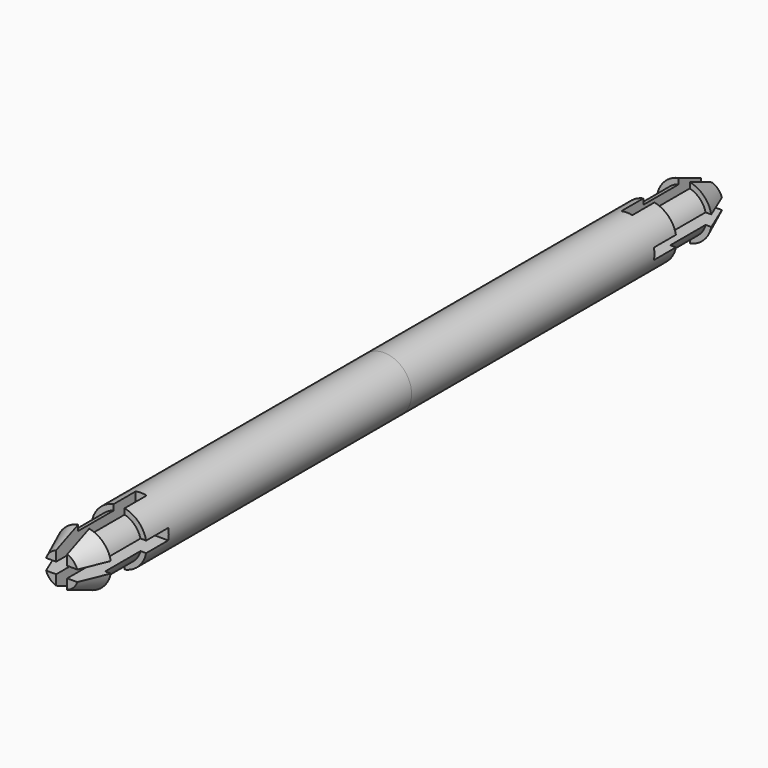
from build123d import *

# Parameters (mm, degrees)
F0_W     = 4
F0_H     = 8
F3_START = -55
F2_W     = 10.6760558783
F2_H     = 2
F2_W_2   = 2
F2_H_2   = 10.1549292555
F3_DEPTH = 18


with BuildPart() as f1:
    # F0 (on Top) → F1 (revolve)
    with BuildSketch(Plane.XY):
        Polygon((0, 73), (0, 68), (4, 68), (5, 68), (3, 73), align=None)
        with Locations((2, 64)):
            Rectangle(F0_W, F0_H)
        Polygon((0, 60), (0, 0), (5, 0), (5, 60), (4, 60), align=None)
    revolve(axis=Axis((0, 30, 0), (0, -1, 0)))

    # F2 (on Front) → F3 (cut)
    with BuildSketch(Plane.XZ.offset(F3_START)):
        with Locations((-6.3380279391, 0)):
            Rectangle(F2_W, F2_H)
        Rectangle(F2_W_2, F2_H)
        with Locations((0, 6.0774646278)):
            Rectangle(F2_W_2, F2_H_2)
        with Locations((6.3380279391, 0)):
            Rectangle(F2_W, F2_H)
        with Locations((0, -6.0774646278)):
            Rectangle(F2_W_2, F2_H_2)
    extrude(amount=-F3_DEPTH, mode=Mode.SUBTRACT)

    # F4: F1 across face


with BuildPart() as f1_1:
    add(f1.part)
    add(f1.part.mirror(Plane.XZ))


solid = f1_1.part
